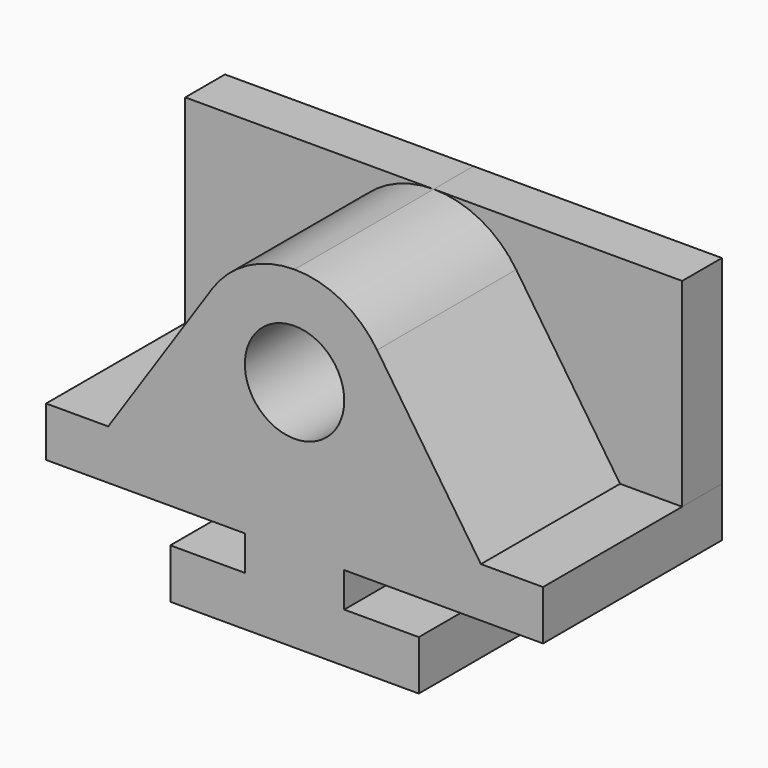
from build123d import *

# Parameters (mm, degrees)
F1_DEPTH = 12.7
F0_R     = 12.7
F2_DEPTH = 57.15


with BuildPart() as f1:
    # F0 (on Front) → F1 (new body)
    with BuildSketch(Plane.XZ):
        with BuildLine():
            Line((-31.75, 85.09), (-31.75, 34.29))
            Line((-31.75, 34.29), (-15.875, 34.29))
            Line((-15.875, 34.29), (10.656574, 73.840173))
            ThreePointArc((10.656574, 73.840173), (19.797059, 82.101765), (31.75, 85.09))
            Line((31.75, 85.09), (-31.75, 85.09))
        make_face()
        with BuildLine():
            Line((79.375, 34.29), (95.25, 34.29))
            Line((95.25, 34.29), (95.25, 85.09))
            Line((95.25, 85.09), (31.75, 85.09))
            ThreePointArc((31.75, 85.09), (43.702941, 82.101765), (52.843426, 73.840173))
            Line((52.843426, 73.840173), (79.375, 34.29))
        make_face()
    extrude(amount=F1_DEPTH)


with BuildPart() as f2:
    # F0 (on Front) → F2 (new body)
    with BuildSketch(Plane.XZ):
        with BuildLine():
            Line((0, 12.7), (0, 0))
            Line((0, 0), (63.5, 0))
            Line((63.5, 0), (63.5, 12.7))
            Line((63.5, 12.7), (44.45, 12.7))
            Line((44.45, 12.7), (44.45, 21.59))
            Line((44.45, 21.59), (95.25, 21.59))
            Line((95.25, 21.59), (95.25, 34.29))
            Line((95.25, 34.29), (79.375, 34.29))
            Line((79.375, 34.29), (52.843426, 73.840173))
            ThreePointArc((52.843426, 73.840173), (43.702941, 82.101765), (31.75, 85.09))
            ThreePointArc((31.75, 85.09), (19.797059, 82.101765), (10.656574, 73.840173))
            Line((10.656574, 73.840173), (-15.875, 34.29))
            Line((-15.875, 34.29), (-31.75, 34.29))
            Line((-31.75, 34.29), (-31.75, 21.59))
            Line((-31.75, 21.59), (19.05, 21.59))
            Line((19.05, 21.59), (19.05, 12.7))
            Line((19.05, 12.7), (0, 12.7))
        make_face()
        with Locations((31.75, 59.69)):
            Circle(F0_R, mode=Mode.SUBTRACT)
    extrude(amount=F2_DEPTH)


solid = Compound([f1.part, f2.part])
